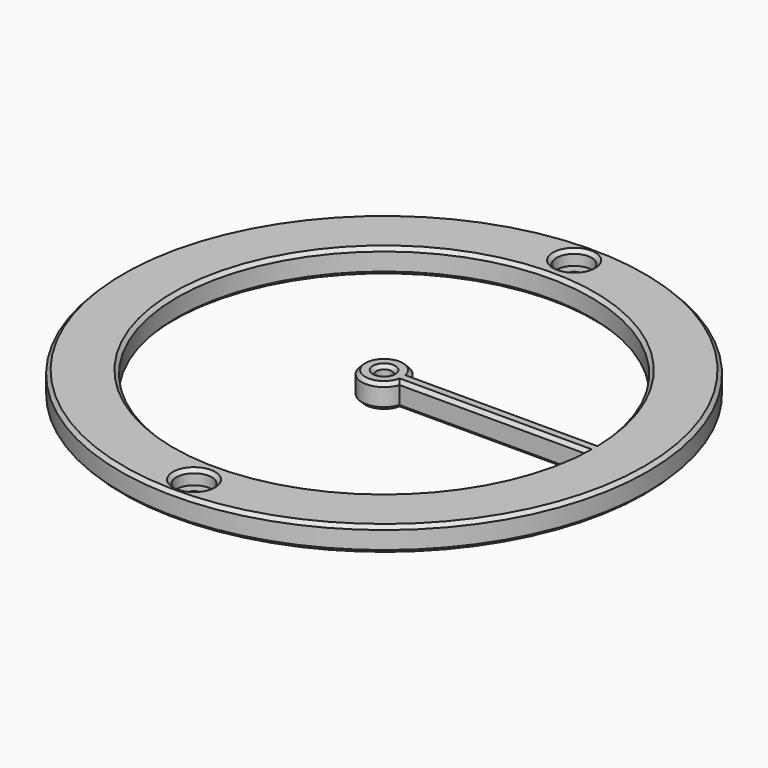
from build123d import *

# Parameters (mm, degrees)
SKETCH004_R     = 75
SKETCH004_R_2   = 2.2
PAD003_DEPTH    = 7
SKETCH005_R     = 5
POCKET001_DEPTH = 4
CHAMFER003_SIZE = 1


with BuildPart() as part:
    # Sketch004 → Pad003 (new body)
    with BuildSketch(Plane.XY):
        Circle(SKETCH004_R)
        Circle(SKETCH004_R_2, mode=Mode.SUBTRACT)
        with Locations((0, 67.5)):
            Circle(SKETCH004_R_2, mode=Mode.SUBTRACT)
        with Locations((0, -67.5)):
            Circle(SKETCH004_R_2, mode=Mode.SUBTRACT)
        with BuildLine():
            ThreePointArc((58.816005, 2), (-58.85, 0), (58.816005, -2))
            Line((58.816005, -2), (6, -2))
            ThreePointArc((6, 2), (-6.324555, 0), (6, -2))
            Line((6, 2), (58.816005, 2))
        make_face(mode=Mode.SUBTRACT)
    extrude(amount=PAD003_DEPTH)

    # Sketch005 (on Face10 of Pad003) → Pocket001 (cut)
    with BuildSketch(Plane.XY.offset(7)):
        with Locations((0, 67.5)):
            Circle(SKETCH005_R)
        with Locations((0, -67.5)):
            Circle(SKETCH005_R)
    extrude(amount=-POCKET001_DEPTH, mode=Mode.SUBTRACT)

    # Chamfer003
    chamfer003_edges = [part.edges().sort_by_distance(p)[0] for p in [
        (-75, 0, 7),
        (-5, -67.5, 7),
        (32.408003, 2, 7),
        (-6.324555, 0, 7),
        (-58.85, 0, 7),
        (32.408003, -2, 7),
        (-2.2, 0, 7),
        (-5, 67.5, 7),
        (-75, 0, 0),
        (32.408003, 2, 0),
        (-58.85, 0, 0),
        (32.408003, -2, 0),
        (-6.324555, 0, 0),
        (-2.2, -67.5, 0),
        (-2.2, 67.5, 0),
        (-2.2, 0, 0),
    ]]
    chamfer(chamfer003_edges, length=CHAMFER003_SIZE)


solid = part.part
